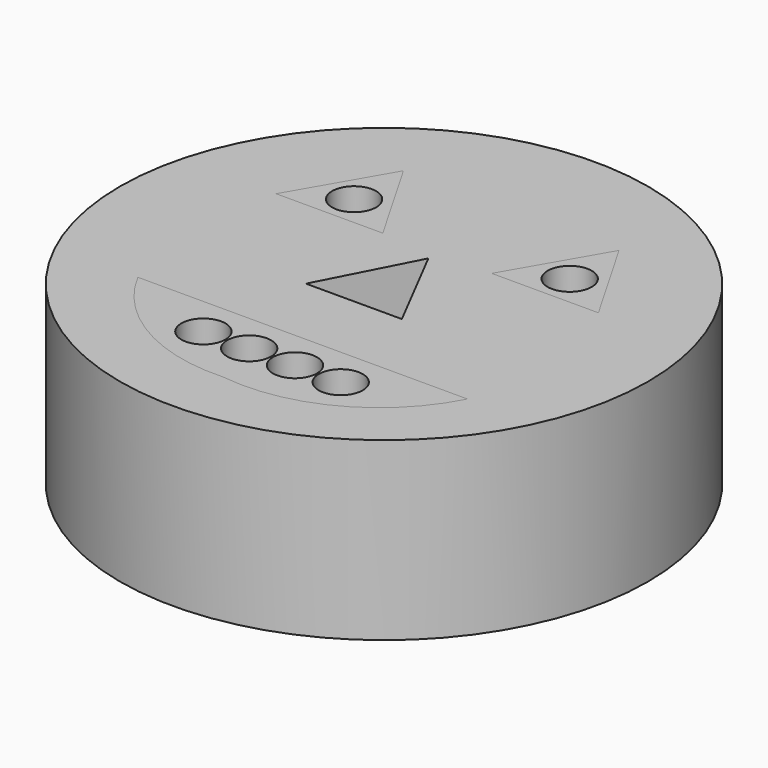
from build123d import *

# Parameters (mm, degrees)
F0_R     = 38.1
F1_DEPTH = 25.4
F0_R_2   = 3.175
F2_DEPTH = 25.4
F3_DEPTH = 25.4
F4_DEPTH = 25.4


with BuildPart() as f1:
    # F0 (on Top) → F1 (new body)
    with BuildSketch(Plane.XY):
        with Locations((-0.38536, 2.283093)):
            Circle(F0_R)
        with BuildLine():
            ThreePointArc((-0.38536, -26.750934), (-13.613874, -23.548607), (-23.063175, -13.752731))
            Line((-23.063175, -13.752731), (24.4885, -13.752731))
            ThreePointArc((24.4885, -13.752731), (14.10996, -24.190847), (-0.38536, -26.750934))
        make_face(mode=Mode.SUBTRACT)
        Polygon((-23.634351, 11.884757), (-15.935385, 25.219757), (-8.236419, 11.884757), align=None, mode=Mode.SUBTRACT)
        Polygon((-7.301479, -3.141313), (-0.38536, 10.284094), (6.530759, -3.141313), align=None, mode=Mode.SUBTRACT)
        Polygon((7.465698, 11.884757), (15.164664, 25.219757), (22.86363, 11.884757), align=None, mode=Mode.SUBTRACT)
    extrude(amount=F1_DEPTH)


with BuildPart() as f2:
    # F0 (on Top) → F2 (new body)
    with BuildSketch(Plane.XY):
        Polygon((-8.236419, 11.884757), (-15.935385, 25.219757), (-23.634351, 11.884757), align=None)
        with Locations((-15.935385, 16.329757)):
            Circle(F0_R_2, mode=Mode.SUBTRACT)
    extrude(amount=F2_DEPTH)


with BuildPart() as f3:
    # F0 (on Top) → F3 (new body)
    with BuildSketch(Plane.XY):
        Polygon((22.86363, 11.884757), (15.164664, 25.219757), (7.465698, 11.884757), align=None)
        with Locations((15.164664, 16.329757)):
            Circle(F0_R_2, mode=Mode.SUBTRACT)
    extrude(amount=F3_DEPTH)


with BuildPart() as f4:
    # F0 (on Top) → F4 (new body)
    with BuildSketch(Plane.XY):
        with BuildLine():
            Line((24.4885, -13.752731), (-23.063175, -13.752731))
            ThreePointArc((-23.063175, -13.752731), (-13.613874, -23.548607), (-0.38536, -26.750934))
            ThreePointArc((-0.38536, -26.750934), (14.10996, -24.190847), (24.4885, -13.752731))
        make_face()
        with Locations((-9.037561, -19.467731)):
            Circle(F0_R_2, mode=Mode.SUBTRACT)
        with Locations((-2.433561, -19.467731)):
            Circle(F0_R_2, mode=Mode.SUBTRACT)
        with Locations((4.170439, -19.467731)):
            Circle(F0_R_2, mode=Mode.SUBTRACT)
        with Locations((10.774439, -19.467731)):
            Circle(F0_R_2, mode=Mode.SUBTRACT)
    extrude(amount=F4_DEPTH)


solid = Compound([f1.part, f2.part, f3.part, f4.part])
